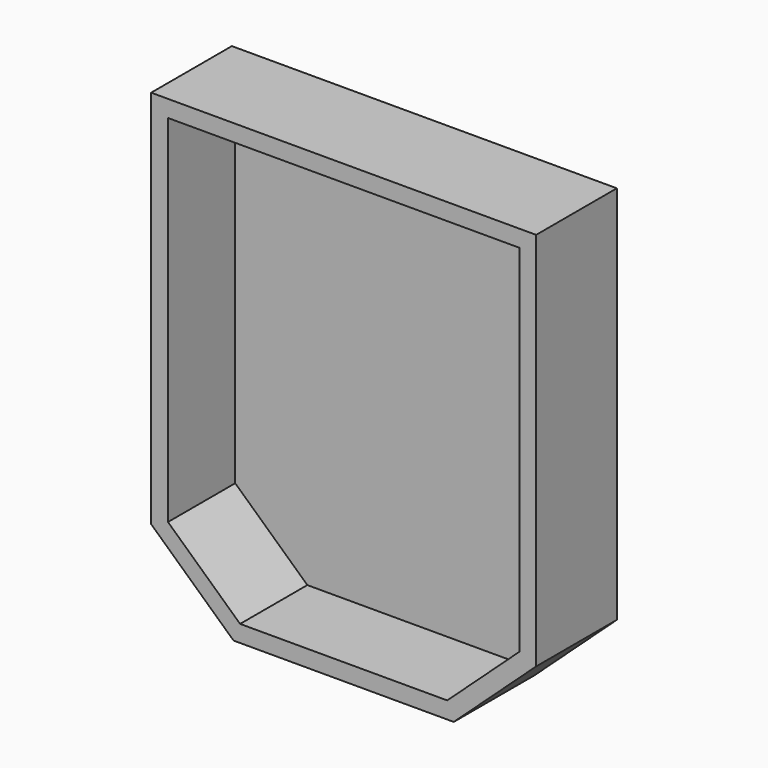
from build123d import *

# Parameters (mm, degrees)
F1_DEPTH = 5
F3_DEPTH = 25


with BuildPart() as f1:
    # F0 (on Front) → F1 (new body)
    with BuildSketch(Plane.XZ):
        Polygon((48.04658, 78.242314), (-66.45342, 78.242314), (-66.45342, -34.757686), (-41.95342, -57.257686), (23.54658, -57.257686), (48.04658, -34.757686), align=None)
    extrude(amount=F1_DEPTH)

    # F2 (on face) → F3 (join)
    with BuildSketch(Plane.XZ.offset(5)):
        Polygon((23.54658, -57.257686), (48.04658, -34.757686), (48.04658, 78.242314), (-66.45342, 78.242314), (-66.45342, -34.757686), (-41.95342, -57.257686), align=None)
        Polygon((-61.45342, -32.560932), (-61.45342, 73.242314), (43.04658, 73.242314), (43.04658, -32.560932), (21.599003, -52.257686), (-40.005844, -52.257686), align=None, mode=Mode.SUBTRACT)
    extrude(amount=F3_DEPTH)


solid = f1.part
